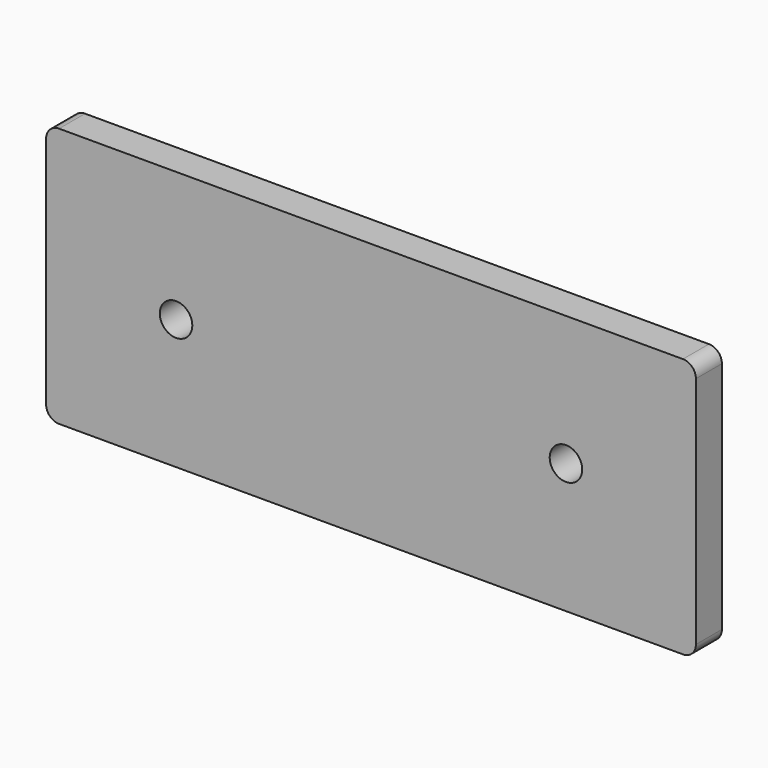
from build123d import *

# Parameters (mm, degrees)
F0_W     = 254
F0_H     = 101.6
F0_R     = 6.35
F1_DEPTH = 12.7
F2_R     = 5.08


with BuildPart() as f1:
    # F0 (on Front) → F1 (new body)
    with BuildSketch(Plane.XZ):
        with Locations((-127, 50.8)):
            Rectangle(F0_W, F0_H)
        with Locations((-203.2, 50.8)):
            Circle(F0_R, mode=Mode.SUBTRACT)
        with Locations((-50.8, 50.8)):
            Circle(F0_R, mode=Mode.SUBTRACT)
    extrude(amount=F1_DEPTH)

    # F2
    f2_edges = [f1.edges().sort_by_distance(p)[0] for p in [
        (-254, -6.35, 101.6),
        (0, -6.35, 101.6),
        (0, -6.35, 0),
        (-254, -6.35, 0),
    ]]
    fillet(f2_edges, radius=F2_R)


solid = f1.part
